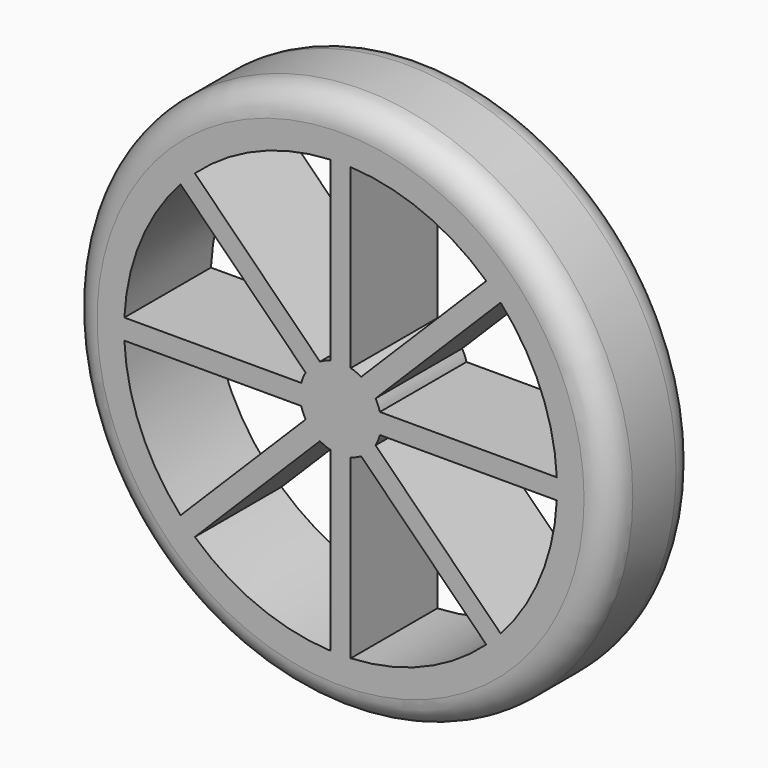
from build123d import *

# Parameters (mm, degrees)
F0_R     = 50.8
F1_DEPTH = 20.32
F2_R     = 5.08


with BuildPart() as f1:
    # F0 (on Front) → F1 (new body)
    with BuildSketch(Plane.XZ):
        Circle(F0_R)
        with BuildLine():
            ThreePointArc((-1.905, -40.595327), (-15.552255, -37.546464), (-27.358193, -30.052269))
            Line((-27.358193, -30.052269), (-3.870019, -6.564096))
            ThreePointArc((-3.870019, -6.564096), (-2.916048, -7.039962), (-1.905, -7.378033))
            Line((-1.905, -7.378033), (-1.905, -40.595327))
        make_face(mode=Mode.SUBTRACT)
        with BuildLine():
            ThreePointArc((-30.052269, -27.358193), (-37.546464, -15.552255), (-40.595327, -1.905))
            Line((-40.595327, -1.905), (-7.378033, -1.905))
            ThreePointArc((-7.378033, -1.905), (-7.039962, -2.916048), (-6.564096, -3.870019))
            Line((-6.564096, -3.870019), (-30.052269, -27.358193))
        make_face(mode=Mode.SUBTRACT)
        with BuildLine():
            ThreePointArc((27.358193, -30.052269), (15.552255, -37.546464), (1.905, -40.595327))
            Line((1.905, -40.595327), (1.905, -7.378033))
            ThreePointArc((1.905, -7.378033), (2.916048, -7.039962), (3.870019, -6.564096))
            Line((3.870019, -6.564096), (27.358193, -30.052269))
        make_face(mode=Mode.SUBTRACT)
        with BuildLine():
            ThreePointArc((40.595327, -1.905), (37.546464, -15.552255), (30.052269, -27.358193))
            Line((30.052269, -27.358193), (6.564096, -3.870019))
            ThreePointArc((6.564096, -3.870019), (7.039962, -2.916048), (7.378033, -1.905))
            Line((7.378033, -1.905), (40.595327, -1.905))
        make_face(mode=Mode.SUBTRACT)
        with BuildLine():
            ThreePointArc((-40.595327, 1.905), (-37.546464, 15.552255), (-30.052269, 27.358193))
            Line((-30.052269, 27.358193), (-6.564096, 3.870019))
            ThreePointArc((-6.564096, 3.870019), (-7.039962, 2.916048), (-7.378033, 1.905))
            Line((-7.378033, 1.905), (-40.595327, 1.905))
        make_face(mode=Mode.SUBTRACT)
        with BuildLine():
            Line((-1.905, 40.595327), (-1.905, 7.378033))
            ThreePointArc((-1.905, 7.378033), (-2.916048, 7.039962), (-3.870019, 6.564096))
            Line((-3.870019, 6.564096), (-27.358193, 30.052269))
            ThreePointArc((-27.358193, 30.052269), (-15.552255, 37.546464), (-1.905, 40.595327))
        make_face(mode=Mode.SUBTRACT)
        with BuildLine():
            Line((6.564096, 3.870019), (30.052269, 27.358193))
            ThreePointArc((30.052269, 27.358193), (37.546464, 15.552255), (40.595327, 1.905))
            Line((40.595327, 1.905), (7.378033, 1.905))
            ThreePointArc((7.378033, 1.905), (7.039962, 2.916048), (6.564096, 3.870019))
        make_face(mode=Mode.SUBTRACT)
        with BuildLine():
            Line((1.905, 7.378033), (1.905, 40.595327))
            ThreePointArc((1.905, 40.595327), (15.552255, 37.546464), (27.358193, 30.052269))
            Line((27.358193, 30.052269), (3.870019, 6.564096))
            ThreePointArc((3.870019, 6.564096), (2.916048, 7.039962), (1.905, 7.378033))
        make_face(mode=Mode.SUBTRACT)
    extrude(amount=F1_DEPTH)

    # F2
    f2_edges = [f1.edges().sort_by_distance(p)[0] for p in [
        (-50.8, -20.32, 0),
        (-50.8, 0, 0),
    ]]
    fillet(f2_edges, radius=F2_R)


solid = f1.part
